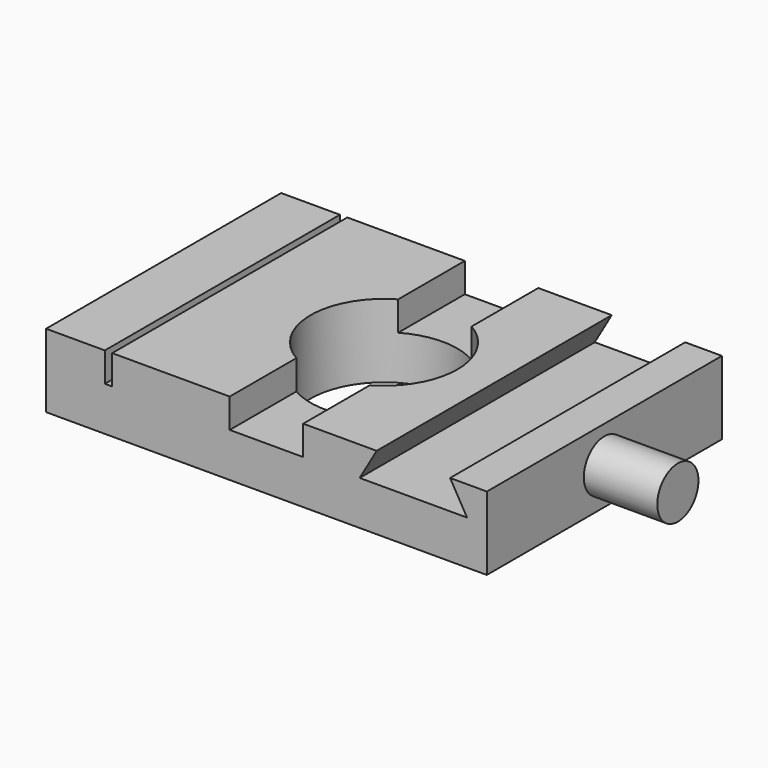
from build123d import *

# Parameters (mm, degrees)
F0_W     = 76.2
F0_H     = 50.8
F0_R     = 12.7
F1_DEPTH = 12.7
F2_W     = 1.27
F2_H     = 50.8
F3_DEPTH = 5.08
F5_DEPTH = 50.801
F6_R     = 4.445
F7_DEPTH = 12.7


with BuildPart() as f1:
    # F0 (on Top) → F1 (new body)
    with BuildSketch(Plane.XY):
        Rectangle(F0_W, F0_H)
        Circle(F0_R, mode=Mode.SUBTRACT)
    extrude(amount=F1_DEPTH)

    # F2 (on face) → F3 (cut)
    with BuildSketch(Plane.XY.offset(12.7)):
        with Locations((-27.305, 0)):
            Rectangle(F2_W, F2_H)
        with BuildLine():
            Line((6.35, 25.4), (-6.35, 25.4))
            Line((-6.35, 25.4), (-6.35, 10.9985226281))
            ThreePointArc((-6.35, 10.9985226281), (0, 12.7), (6.35, 10.9985226281))
            Line((6.35, 10.9985226281), (6.35, 25.4))
        make_face()
        with BuildLine():
            Line((-6.35, -10.9985226281), (-6.35, -25.4))
            Line((-6.35, -25.4), (6.35, -25.4))
            Line((6.35, -25.4), (6.35, -10.9985226281))
            ThreePointArc((6.35, -10.9985226281), (0, -12.7), (-6.35, -10.9985226281))
        make_face()
    extrude(amount=-F3_DEPTH, mode=Mode.SUBTRACT)

    # F4 (on face) → F5 (cut, through all)
    with BuildSketch(Plane.XZ.offset(25.4)):
        Polygon((25.4, 12.7), (19.05, 12.7), (16.1170606325, 7.62), (25.4, 7.62), align=None)
        Polygon((31.75, 12.7), (25.4, 12.7), (25.4, 7.62), (34.6829393675, 7.62), align=None)
    extrude(amount=-F5_DEPTH, mode=Mode.SUBTRACT)

    # F6 (on face) → F7 (join)
    with BuildSketch(Plane.YZ.offset(38.1)):
        with Locations((0, 6.35)):
            Circle(F6_R)
    extrude(amount=F7_DEPTH)


solid = f1.part
